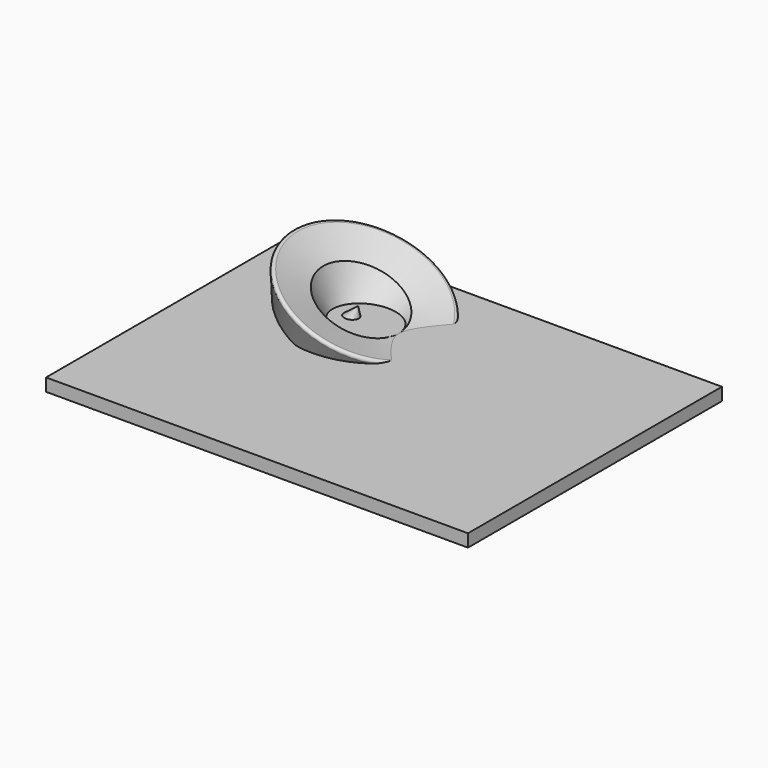
from build123d import *

# Parameters (mm, degrees)
F2_R     = 5.08
F3_W     = 845.2445566654
F3_H     = 635.8838379383
F4_DEPTH = 25.4


with BuildPart() as f1:
    # F0 (on Front) → F1 (revolve)
    with BuildSketch(Plane.XZ):
        Polygon((-30.6513123214, -11.656133458), (-34.3927890062, 47.0562428236), (-69.5050880313, -29.5000895858), (-30.9391189367, -60.0075013936), (57.4172511697, 3.8853778969), (74.9733969569, -33.8171757758), (124.7637942433, 14.8219969124), (47.3440475762, 25.470810011), align=None)
    revolve(axis=Axis((-51.9489385188, 0, 8.7780766189), (-0.4168899853, 0, -0.9089569518)))

    # F2
    f2_edges = [f1.edges().sort_by_distance(p)[0] for p in [
        (-162.656787, 0, 146.64646),
    ]]
    fillet(f2_edges, radius=F2_R)

    # F3 (on Top) → F4 (join)
    with BuildSketch(Plane.XY):
        with Locations((132.3471516371, -143.5654908419)):
            Rectangle(F3_W, F3_H)
    extrude(amount=F4_DEPTH)


solid = f1.part
